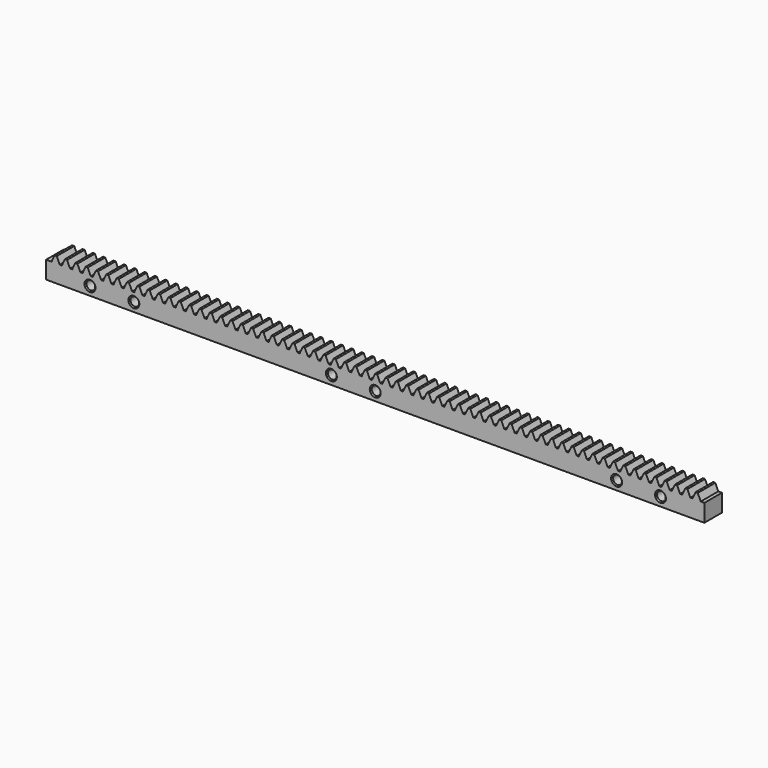
from build123d import *

# Parameters (mm, degrees)
F0_W     = 10
F0_H     = 11
F1_DEPTH = 300
F3_DEPTH = 10.001
F4_R     = 2
F5_DEPTH = 10.001
F6_SIZE  = 0.5


with BuildPart() as f1:
    # F0 (on Right) → F1 (new body)
    with BuildSketch(Plane.YZ):
        with Locations((5, 5.5)):
            Rectangle(F0_W, F0_H)
    extrude(amount=-F1_DEPTH)

    # F2 (on face) → F3 (cut, through all)
    with BuildSketch(Plane.XZ):
        Polygon((0, 11), (-3.008, 11), (-1.652, 8), (-1.152, 8), (0, 8), align=None)
        Polygon((-4.008, 11), (-7.72, 11), (-6.364, 8), (-5.864, 8), (-5.364, 8), align=None)
        Polygon((-8.72, 11), (-12.432, 11), (-11.076, 8), (-10.576, 8), (-10.076, 8), align=None)
        Polygon((-13.432, 11), (-17.144, 11), (-15.788, 8), (-15.288, 8), (-14.788, 8), align=None)
        Polygon((-20, 11), (-21.856, 11), (-20.5, 8), (-20, 8), align=None)
        Polygon((-297.508, 8), (-296.152, 11), (-300, 11), (-300, 8), (-298.008, 8), align=None)
        Polygon((-292.796, 8), (-291.44, 11), (-295.152, 11), (-293.796, 8), (-293.296, 8), align=None)
        Polygon((-288.084, 8), (-286.728, 11), (-290.44, 11), (-289.084, 8), (-288.584, 8), align=None)
        Polygon((-283.372, 8), (-282.016, 11), (-285.728, 11), (-284.372, 8), (-283.872, 8), align=None)
        Polygon((-278.66, 8), (-277.304, 11), (-281.016, 11), (-279.66, 8), (-279.16, 8), align=None)
        Polygon((-273.948, 8), (-272.592, 11), (-276.304, 11), (-274.948, 8), (-274.448, 8), align=None)
        Polygon((-269.236, 8), (-267.88, 11), (-271.592, 11), (-270.236, 8), (-269.736, 8), align=None)
        Polygon((-264.524, 8), (-263.168, 11), (-266.88, 11), (-265.524, 8), (-265.024, 8), align=None)
        Polygon((-259.812, 8), (-258.456, 11), (-262.168, 11), (-260.812, 8), (-260.312, 8), align=None)
        Polygon((-255.1, 8), (-253.744, 11), (-257.456, 11), (-256.1, 8), (-255.6, 8), align=None)
        Polygon((-250.388, 8), (-249.032, 11), (-252.744, 11), (-251.388, 8), (-250.888, 8), align=None)
        Polygon((-245.676, 8), (-244.32, 11), (-248.032, 11), (-246.676, 8), (-246.176, 8), align=None)
        Polygon((-240.964, 8), (-239.608, 11), (-243.32, 11), (-241.964, 8), (-241.464, 8), align=None)
        Polygon((-236.252, 8), (-234.896, 11), (-238.608, 11), (-237.252, 8), (-236.752, 8), align=None)
        Polygon((-231.54, 8), (-230.184, 11), (-233.896, 11), (-232.54, 8), (-232.04, 8), align=None)
        Polygon((-226.828, 8), (-225.472, 11), (-229.184, 11), (-227.828, 8), (-227.328, 8), align=None)
        Polygon((-222.116, 8), (-220.76, 11), (-224.472, 11), (-223.116, 8), (-222.616, 8), align=None)
        Polygon((-217.404, 8), (-216.048, 11), (-219.76, 11), (-218.404, 8), (-217.904, 8), align=None)
        Polygon((-212.692, 8), (-211.336, 11), (-215.048, 11), (-213.692, 8), (-213.192, 8), align=None)
        Polygon((-207.98, 8), (-206.624, 11), (-210.336, 11), (-208.98, 8), (-208.48, 8), align=None)
        Polygon((-203.268, 8), (-201.912, 11), (-205.624, 11), (-204.268, 8), (-203.768, 8), align=None)
        Polygon((-198.556, 8), (-197.2, 11), (-200.912, 11), (-199.556, 8), (-199.056, 8), align=None)
        Polygon((-193.844, 8), (-192.488, 11), (-196.2, 11), (-194.844, 8), (-194.344, 8), align=None)
        Polygon((-189.132, 8), (-187.776, 11), (-191.488, 11), (-190.132, 8), (-189.632, 8), align=None)
        Polygon((-184.42, 8), (-183.064, 11), (-186.776, 11), (-185.42, 8), (-184.92, 8), align=None)
        Polygon((-179.708, 8), (-178.352, 11), (-182.064, 11), (-180.708, 8), (-180.208, 8), align=None)
        Polygon((-174.996, 8), (-173.64, 11), (-177.352, 11), (-175.996, 8), (-175.496, 8), align=None)
        Polygon((-170.284, 8), (-168.928, 11), (-172.64, 11), (-171.284, 8), (-170.784, 8), align=None)
        Polygon((-165.572, 8), (-164.216, 11), (-167.928, 11), (-166.572, 8), (-166.072, 8), align=None)
        Polygon((-160.86, 8), (-159.504, 11), (-163.216, 11), (-161.86, 8), (-161.36, 8), align=None)
        Polygon((-156.148, 8), (-154.792, 11), (-158.504, 11), (-157.148, 8), (-156.648, 8), align=None)
        Polygon((-151.436, 8), (-150.08, 11), (-153.792, 11), (-152.436, 8), (-151.936, 8), align=None)
        Polygon((-146.724, 8), (-145.368, 11), (-149.08, 11), (-147.724, 8), (-147.224, 8), align=None)
        Polygon((-142.012, 8), (-140.656, 11), (-144.368, 11), (-143.012, 8), (-142.512, 8), align=None)
        Polygon((-137.3, 8), (-135.944, 11), (-139.656, 11), (-138.3, 8), (-137.8, 8), align=None)
        Polygon((-132.588, 8), (-131.232, 11), (-134.944, 11), (-133.588, 8), (-133.088, 8), align=None)
        Polygon((-127.876, 8), (-126.52, 11), (-130.232, 11), (-128.876, 8), (-128.376, 8), align=None)
        Polygon((-123.164, 8), (-121.808, 11), (-125.52, 11), (-124.164, 8), (-123.664, 8), align=None)
        Polygon((-118.452, 8), (-117.096, 11), (-120.808, 11), (-119.452, 8), (-118.952, 8), align=None)
        Polygon((-113.74, 8), (-112.384, 11), (-116.096, 11), (-114.74, 8), (-114.24, 8), align=None)
        Polygon((-109.028, 8), (-107.672, 11), (-111.384, 11), (-110.028, 8), (-109.528, 8), align=None)
        Polygon((-104.316, 8), (-102.96, 11), (-106.672, 11), (-105.316, 8), (-104.816, 8), align=None)
        Polygon((-99.604, 8), (-98.248, 11), (-101.96, 11), (-100.604, 8), (-100.104, 8), align=None)
        Polygon((-94.892, 8), (-93.536, 11), (-97.248, 11), (-95.892, 8), (-95.392, 8), align=None)
        Polygon((-90.18, 8), (-88.824, 11), (-92.536, 11), (-91.18, 8), (-90.68, 8), align=None)
        Polygon((-85.468, 8), (-84.112, 11), (-87.824, 11), (-86.468, 8), (-85.968, 8), align=None)
        Polygon((-80.756, 8), (-79.4, 11), (-83.112, 11), (-81.756, 8), (-81.256, 8), align=None)
        Polygon((-76.044, 8), (-74.688, 11), (-78.4, 11), (-77.044, 8), (-76.544, 8), align=None)
        Polygon((-71.332, 8), (-69.976, 11), (-73.688, 11), (-72.332, 8), (-71.832, 8), align=None)
        Polygon((-66.62, 8), (-65.264, 11), (-68.976, 11), (-67.62, 8), (-67.12, 8), align=None)
        Polygon((-61.908, 8), (-60.552, 11), (-64.264, 11), (-62.908, 8), (-62.408, 8), align=None)
        Polygon((-57.196, 8), (-55.84, 11), (-59.552, 11), (-58.196, 8), (-57.696, 8), align=None)
        Polygon((-52.484, 8), (-51.128, 11), (-54.84, 11), (-53.484, 8), (-52.984, 8), align=None)
        Polygon((-47.772, 8), (-46.416, 11), (-50.128, 11), (-48.772, 8), (-48.272, 8), align=None)
        Polygon((-43.06, 8), (-41.704, 11), (-45.416, 11), (-44.06, 8), (-43.56, 8), align=None)
        Polygon((-38.348, 8), (-36.992, 11), (-40.704, 11), (-39.348, 8), (-38.848, 8), align=None)
        Polygon((-33.636, 8), (-32.28, 11), (-35.992, 11), (-34.636, 8), (-34.136, 8), align=None)
        Polygon((-28.924, 8), (-27.568, 11), (-31.28, 11), (-29.924, 8), (-29.424, 8), align=None)
        Polygon((-24.212, 8), (-22.856, 11), (-26.568, 11), (-25.212, 8), (-24.712, 8), align=None)
        Polygon((-18.144, 11), (-20, 11), (-20, 8), (-19.5, 8), align=None)
    extrude(amount=-F3_DEPTH, mode=Mode.SUBTRACT)

    # F4 (on face) → F5 (cut, through all)
    with BuildSketch(Plane(origin=(0, 10, 0), x_dir=(-1, 0, 0), z_dir=(0, 1, 0))):
        with Locations((150, 4)):
            Circle(F4_R)
        with Locations((280, 4)):
            Circle(F4_R)
        with Locations((20, 4)):
            Circle(F4_R)
        with Locations((260, 4)):
            Circle(F4_R)
        with Locations((170, 4)):
            Circle(F4_R)
        with Locations((40, 4)):
            Circle(F4_R)
    extrude(amount=-F5_DEPTH, mode=Mode.SUBTRACT)

    # F6
    f6_edges = [f1.edges().sort_by_distance(p)[0] for p in [
        (-18, 10, 4),
        (-22, 5, 4),
        (-18, 0, 4),
        (-148, 10, 4),
        (-152, 5, 4),
        (-148, 0, 4),
        (-278, 10, 4),
        (-282, 5, 4),
        (-278, 0, 4),
        (-38, 10, 4),
        (-42, 5, 4),
        (-38, 0, 4),
        (-168, 10, 4),
        (-172, 5, 4),
        (-168, 0, 4),
        (-258, 10, 4),
        (-262, 5, 4),
        (-258, 0, 4),
    ]]
    chamfer(f6_edges, length=F6_SIZE)


solid = f1.part
